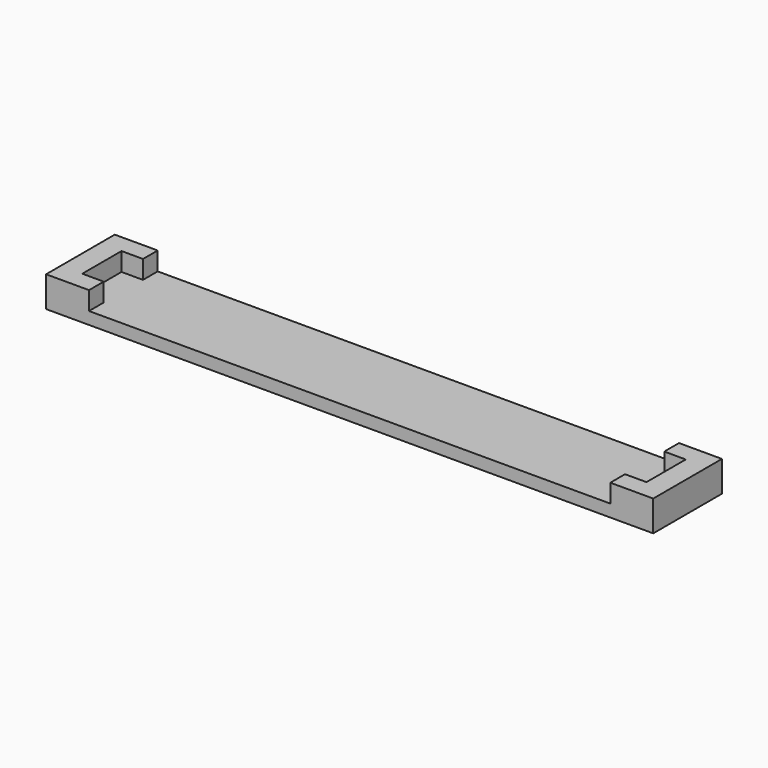
from build123d import *

# Parameters (mm, degrees)
F1_DEPTH = 2
F2_DEPTH = 5
F3_DEPTH = 5


with BuildPart() as f1:
    # F0 (on Top) → F1 (new body)
    with BuildSketch(Plane.XY):
        Polygon((42.5, 4), (42.5, 7), (-42.5, 7), (-42.5, 4), (-46, 4), (-46, -4), (-42.5, -4), (-42.5, -7), (42.5, -7), (42.5, -4), (46, -4), (46, 4), align=None)
    extrude(amount=F1_DEPTH)

    # F0 (on Top) → F2 (join)
    with BuildSketch(Plane.XY):
        Polygon((-42.5, 4), (-42.5, 7), (-49.5, 7), (-49.5, -7), (-42.5, -7), (-42.5, -4), (-46, -4), (-46, 4), align=None)
    extrude(amount=F2_DEPTH)

    # F0 (on Top) → F3 (join)
    with BuildSketch(Plane.XY):
        Polygon((49.5, -7), (49.5, 7), (42.5, 7), (42.5, 4), (46, 4), (46, -4), (42.5, -4), (42.5, -7), align=None)
    extrude(amount=F3_DEPTH)


solid = f1.part
